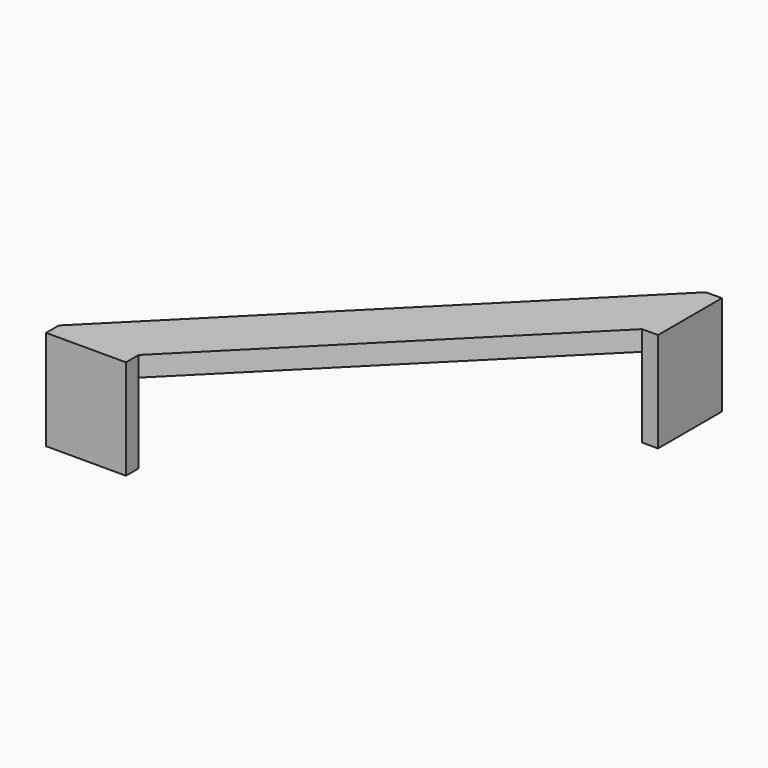
from build123d import *

# Parameters (mm, degrees)
F0_W     = 8
F0_H     = 1.6
F0_W_2   = 1.6
F0_H_2   = 8
F1_DEPTH = 2
F2_DEPTH = 8


with BuildPart() as f1:
    # F0 (on Top) → F1 (new body)
    with BuildSketch(Plane.XY):
        with Locations((-32, -0.8)):
            Rectangle(F0_W, F0_H)
        Polygon((-36, 0), (-28, 0), (0, 28), (0, 36), align=None)
        with Locations((0.8, 32)):
            Rectangle(F0_W_2, F0_H_2)
    extrude(amount=F1_DEPTH)

    # F0 (on Top) → F2 (join)
    with BuildSketch(Plane.XY):
        with Locations((0.8, 32)):
            Rectangle(F0_W_2, F0_H_2)
        with Locations((-32, -0.8)):
            Rectangle(F0_W, F0_H)
    extrude(amount=-F2_DEPTH)


solid = f1.part
